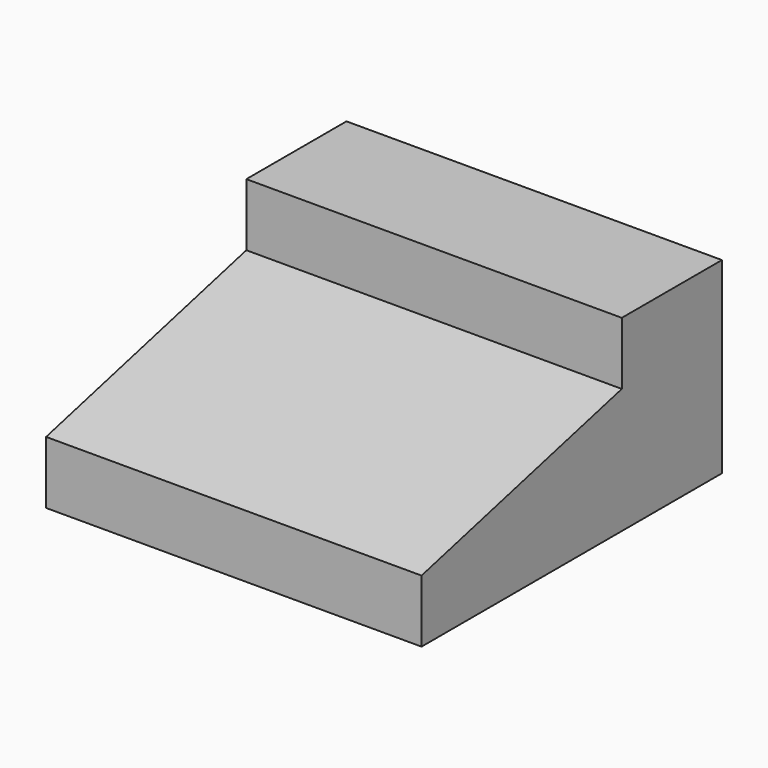
from build123d import *

# Parameters (mm, degrees)
F0_W     = 30
F0_H     = 30
F1_DEPTH = 15
F3_DEPTH = 30.001


with BuildPart() as f1:
    # F0 (on Top) → F1 (new body)
    with BuildSketch(Plane.XY):
        with Locations((-44.74603, -30.681478)):
            Rectangle(F0_W, F0_H)
    extrude(amount=F1_DEPTH)

    # F2 (on face) → F3 (cut, through all)
    with BuildSketch(Plane(origin=(-59.74603, 0, 0), x_dir=(0, -1, 0), z_dir=(-1, 0, 0))):
        Polygon((45.681478, 15), (25.681478, 15), (25.681478, 10), (45.681478, 5), align=None)
    extrude(amount=-F3_DEPTH, mode=Mode.SUBTRACT)


solid = f1.part
